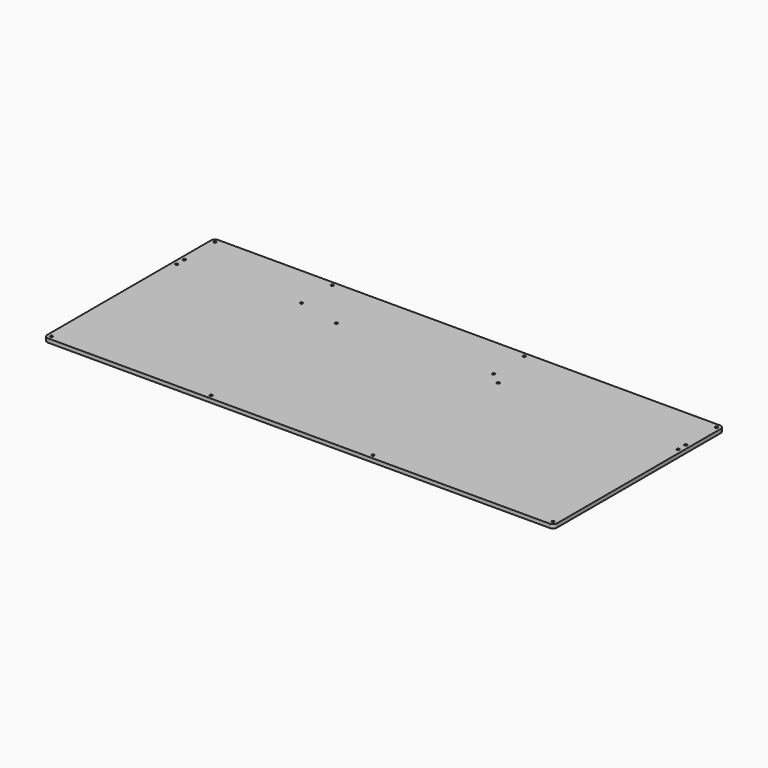
from build123d import *

# Parameters (mm, degrees)
SKETCH_R  = 0.625
PAD_DEPTH = 1.8


with BuildPart() as part:
    # Sketch → Pad (new body)
    with BuildSketch(Plane.XY):
        with BuildLine():
            Line((-119.75, 48), (-119.75, -48))
            ThreePointArc((-119.75, -48), (-119.164214, -49.414214), (-117.75, -50))
            Line((-117.75, -50), (117.75, -50))
            ThreePointArc((117.75, -50), (119.164214, -49.414214), (119.75, -48))
            Line((119.75, -48), (119.75, 48))
            ThreePointArc((119.75, 48), (119.164214, 49.414214), (117.75, 50))
            Line((117.75, 50), (-117.75, 50))
            ThreePointArc((-117.75, 50), (-119.164214, 49.414214), (-119.75, 48))
        make_face()
        with Locations((-117.75, 48)):
            Circle(SKETCH_R, mode=Mode.SUBTRACT)
        with Locations((117.75, 48)):
            Circle(SKETCH_R, mode=Mode.SUBTRACT)
        with Locations((117.75, -48)):
            Circle(SKETCH_R, mode=Mode.SUBTRACT)
        with Locations((-117.75, -48)):
            Circle(SKETCH_R, mode=Mode.SUBTRACT)
        with Locations((-117.75, 30)):
            Circle(SKETCH_R, mode=Mode.SUBTRACT)
        with Locations((-62.75, 48)):
            Circle(SKETCH_R, mode=Mode.SUBTRACT)
        with Locations((-62.75, 30)):
            Circle(SKETCH_R, mode=Mode.SUBTRACT)
        with Locations((27.5, 48)):
            Circle(SKETCH_R, mode=Mode.SUBTRACT)
        with Locations((33.25, -48)):
            Circle(SKETCH_R, mode=Mode.SUBTRACT)
        with Locations((-42.75, -48)):
            Circle(SKETCH_R, mode=Mode.SUBTRACT)
        with Locations((117.75, 30)):
            Circle(SKETCH_R, mode=Mode.SUBTRACT)
        with Locations((117.75, 25.5)):
            Circle(SKETCH_R, mode=Mode.SUBTRACT)
        with Locations((27.5, 30)):
            Circle(SKETCH_R, mode=Mode.SUBTRACT)
        with Locations((-117.75, 25.5)):
            Circle(SKETCH_R, mode=Mode.SUBTRACT)
        with Locations((33.25, 25.5)):
            Circle(SKETCH_R, mode=Mode.SUBTRACT)
        with Locations((-42.75, 25.5)):
            Circle(SKETCH_R, mode=Mode.SUBTRACT)
    extrude(amount=PAD_DEPTH)


solid = part.part
